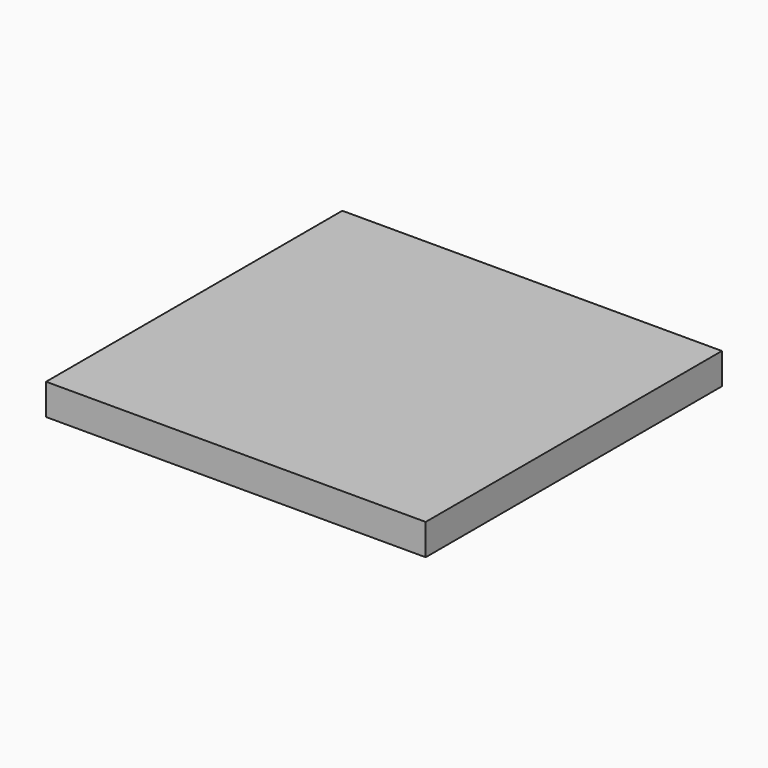
from build123d import *

# Parameters (mm, degrees)
F0_W     = 122
F0_H     = 119
F1_DEPTH = 5
F2_R     = 1.25
F3_DEPTH = 61


with BuildPart() as f1:
    # F0 (on Top) → F1 (new body, symmetric)
    with BuildSketch(Plane.XY):
        Rectangle(F0_W, F0_H)
    extrude(amount=F1_DEPTH, both=True)

    # F2 (on face) → F3 (cut)
    with BuildSketch(Plane(origin=(-61, 0, 0), x_dir=(0, -1, 0), z_dir=(-1, 0, 0))):
        Circle(F2_R)
    extrude(amount=-F3_DEPTH, mode=Mode.SUBTRACT)


solid = f1.part
